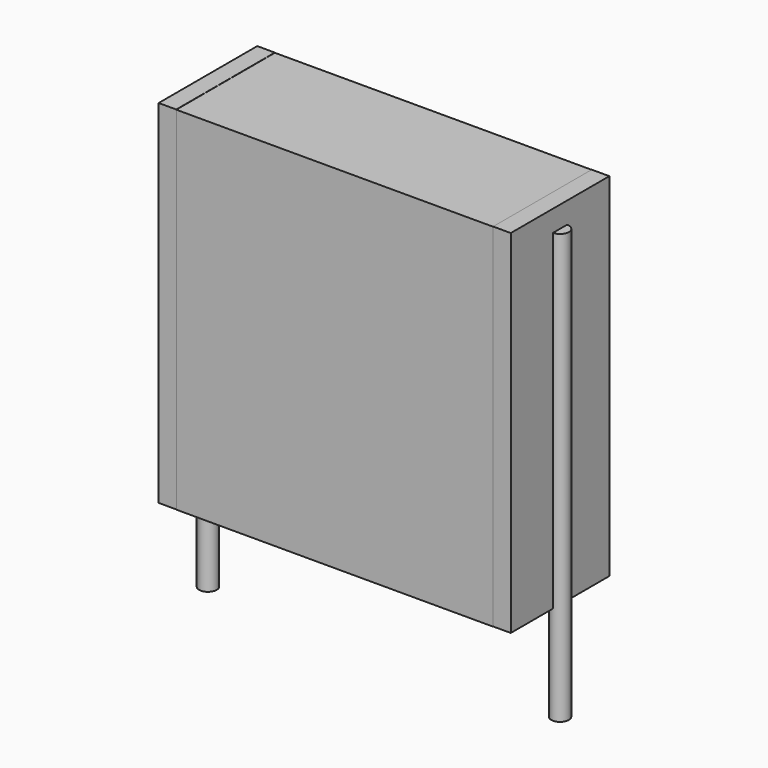
from build123d import *

# Parameters (mm, degrees)
SKETCH_W          = 9
SKETCH_H          = 3.5
PAD_DEPTH         = 10
SKETCH001_R       = 0.25
PAD001_DEPTH      = 9
PAD001_DEPTH_BACK = 3.2
SKETCH002_W       = 0.5
SKETCH002_H       = 3.5
PAD002_DEPTH      = 10


with BuildPart() as pad:
    # Sketch → Pad (new body)
    with BuildSketch(Plane.XY.offset(0.1)):
        with Locations((5, 0)):
            Rectangle(SKETCH_W, SKETCH_H)
    extrude(amount=PAD_DEPTH)


with BuildPart() as pad001:
    # Sketch001 → Pad001 (new body, two sides)
    with BuildSketch(Plane.XY.offset(0.5)) as pad001_sk:
        Circle(SKETCH001_R)
        with Locations((10, 0)):
            Circle(SKETCH001_R)
    extrude(amount=PAD001_DEPTH)
    extrude(pad001_sk.sketch, amount=-PAD001_DEPTH_BACK)


with BuildPart() as pad002:
    # Sketch002 → Pad002 (new body)
    with BuildSketch(Plane.XY.offset(0.105)):
        with Locations((0.25, 0)):
            Rectangle(SKETCH002_W, SKETCH002_H)
        with Locations((9.75, 0)):
            Rectangle(SKETCH002_W, SKETCH002_H)
    extrude(amount=PAD002_DEPTH)


solid = Compound([pad.part, pad001.part, pad002.part])
